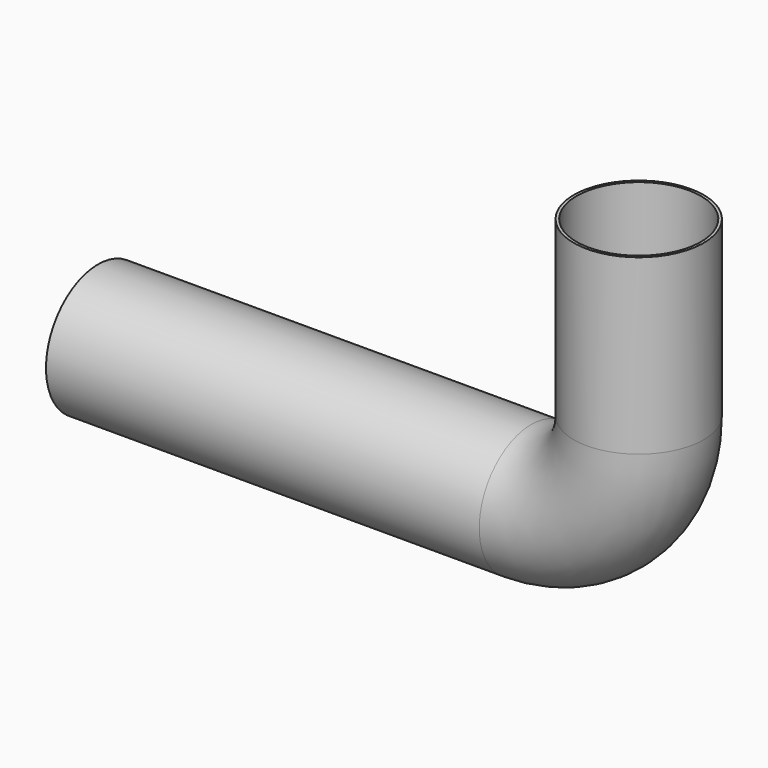
from build123d import *

# Parameters (mm, degrees)
F1_R   = 38.1
F1_R_2 = 36.449


with BuildPart() as f2:
    # F2: sweep along a path in F0
    with BuildLine(Plane.XZ) as f2_path:
        Line((-254, -63.5), (0, -63.5))
        ThreePointArc((0, -63.5), (44.901281, -44.901281), (63.5, 0))
        Line((63.5, 0), (63.5, 101.6))
    # F1 (on Right) → F2 (sweep)
    with BuildSketch(Plane.YZ):
        with Locations((0, -63.024494)):
            Circle(F1_R)
        with Locations((0, -63.024494)):
            Circle(F1_R_2, mode=Mode.SUBTRACT)
    sweep(path=f2_path.line)


solid = f2.part
